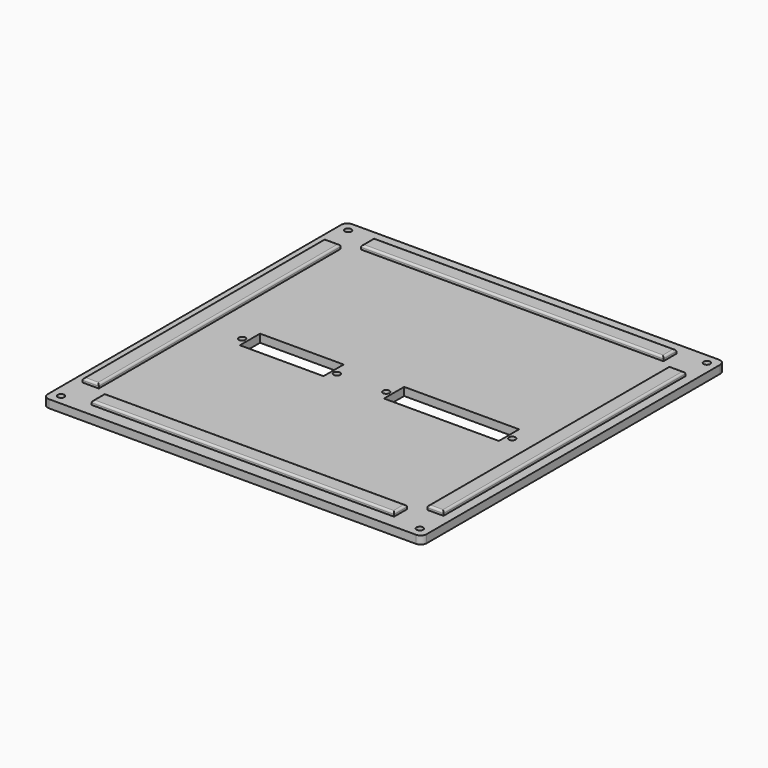
from build123d import *

# Parameters (mm, degrees)
SKETCH_W        = 188
SKETCH_H        = 188
PAD_DEPTH       = 4
SKETCH001_R     = 1.625
POCKET_DEPTH    = 4.001
SKETCH002_R     = 1.625
SKETCH002_W     = 41.5
SKETCH002_H     = 12.5
SKETCH002_W_2   = 57
POCKET001_DEPTH = 4.001
FILLET_R        = 3
SKETCH003_W     = 150
SKETCH003_H     = 8
SKETCH003_W_2   = 8
SKETCH003_H_2   = 150
PAD001_DEPTH    = 2
FILLET001_R     = 1


with BuildPart() as part:
    # Sketch → Pad (new body)
    with BuildSketch(Plane.XY):
        Rectangle(SKETCH_W, SKETCH_H)
    extrude(amount=PAD_DEPTH)

    # Sketch001 (on Face6 of Pad) → Pocket (cut, through all)
    with BuildSketch(Plane.XY.offset(4)):
        with Locations((-89, 89)):
            Circle(SKETCH001_R)
        with Locations((89, 89)):
            Circle(SKETCH001_R)
        with Locations((89, -89)):
            Circle(SKETCH001_R)
        with Locations((-89, -89)):
            Circle(SKETCH001_R)
    extrude(amount=-POCKET_DEPTH, mode=Mode.SUBTRACT)

    # Sketch002 (on Face5 of Pocket) → Pocket001 (cut, through all)
    with BuildSketch(Plane.XY.offset(4)):
        with Locations((-17.25, -7.65)):
            Circle(SKETCH002_R)
        with Locations((-64.25, -7.65)):
            Circle(SKETCH002_R)
        with Locations((7.25, -7.65)):
            Circle(SKETCH002_R)
        with Locations((69.75, -7.65)):
            Circle(SKETCH002_R)
        with Locations((-40.75, -6.25)):
            Rectangle(SKETCH002_W, SKETCH002_H)
        with Locations((38.5, -6.25)):
            Rectangle(SKETCH002_W_2, SKETCH002_H)
    extrude(amount=-POCKET001_DEPTH, mode=Mode.SUBTRACT)

    # Fillet
    fillet_edges = [part.edges().sort_by_distance(p)[0] for p in [
        (-94, -94, 2),
        (94, -94, 2),
        (94, 94, 2),
        (-94, 94, 2),
    ]]
    fillet(fillet_edges, radius=FILLET_R)

    # Sketch003 (on Face5 of Fillet) → Pad001 (join)
    with BuildSketch(Plane.XY.offset(4)):
        with Locations((0, -83.5)):
            Rectangle(SKETCH003_W, SKETCH003_H)
        with Locations((0, 83.5)):
            Rectangle(SKETCH003_W, SKETCH003_H)
        with Locations((-85.5, 0)):
            Rectangle(SKETCH003_W_2, SKETCH003_H_2)
        with Locations((85.5, 0)):
            Rectangle(SKETCH003_W_2, SKETCH003_H_2)
    extrude(amount=PAD001_DEPTH)

    # Fillet001
    fillet001_edges = [part.edges().sort_by_distance(p)[0] for p in [
        (-85.5, 75, 6),
        (-81.5, 0, 6),
        (-85.5, -75, 6),
        (-89.5, 0, 6),
        (0, -79.5, 6),
        (75, -83.5, 6),
        (0, -87.5, 6),
        (-75, -83.5, 6),
        (85.5, 75, 6),
        (89.5, 0, 6),
        (85.5, -75, 6),
        (81.5, 0, 6),
        (0, 87.5, 6),
        (75, 83.5, 6),
        (0, 79.5, 6),
        (-75, 83.5, 6),
    ]]
    fillet(fillet001_edges, radius=FILLET001_R)


solid = part.part
